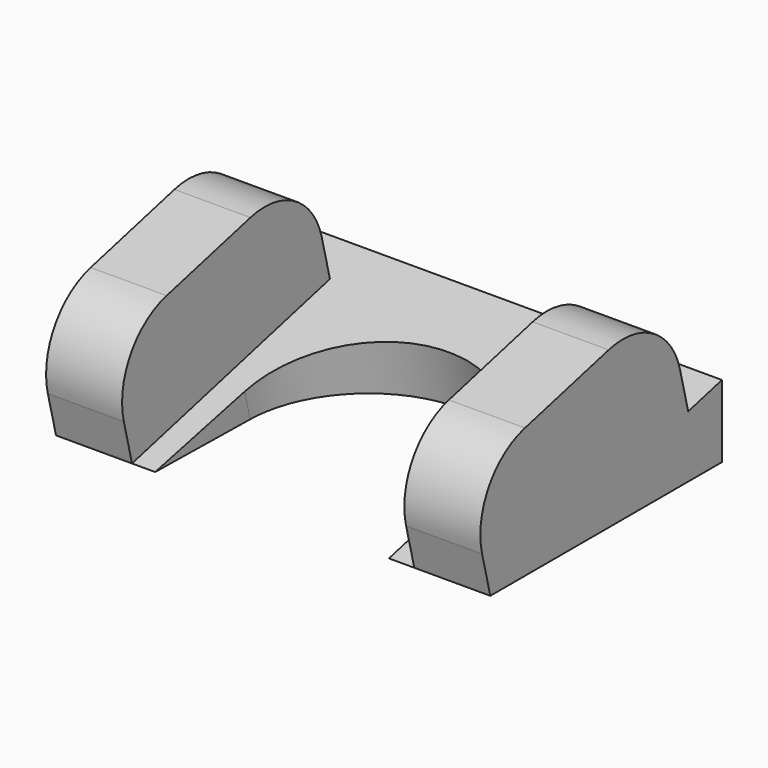
from build123d import *

# Parameters (mm, degrees)
F0_W     = 30
F0_H     = 20
F1_DEPTH = 5
F3_DEPTH = 30
F5_DEPTH = 25.4
F6_W     = 5.25
F6_H     = 17.6155281281
F7_DEPTH = 8
F8_R     = 5.08


with BuildPart() as f1:
    # F0 (on Top) → F1 (new body)
    with BuildSketch(Plane.XY):
        with Locations((15, -10)):
            Rectangle(F0_W, F0_H)
    extrude(amount=F1_DEPTH)

    # F2 (on face) → F3 (cut, through all)
    with BuildSketch(Plane.YZ.offset(30)):
        Polygon((-20, 5), (-20, 0), (0, 5), align=None)
    extrude(amount=-F3_DEPTH, mode=Mode.SUBTRACT)

    # F4 (on face) → F5 (cut)
    with BuildSketch(Plane(origin=(0, -1.1764705882, 4.7058823529), x_dir=(1, 0, 0), z_dir=(0, -0.242535625, 0.9701425001))):
        with BuildLine():
            Line((22.9984683846, -19.4028500029), (22.9984683846, -11.9438578146))
            Line((22.9984683846, -11.9438578146), (22.9984683846, -11.6307859351))
            ThreePointArc((22.9984683846, -11.6307859351), (15, -3.7873218748), (7.0015316154, -11.6307859351))
            Line((7.0015316154, -11.6307859351), (6.8494265755, -19.4028500029))
            Line((6.8494265755, -19.4028500029), (22.9984683846, -19.4028500029))
        make_face()
    extrude(amount=-F5_DEPTH, mode=Mode.SUBTRACT)

    # F6 (on face) → F7 (join)
    with BuildSketch(Plane(origin=(0, -1.1764705882, 4.7058823529), x_dir=(1, 0, 0), z_dir=(0, -0.242535625, 0.9701425001))):
        with Locations((27.375, -10.5950859389)):
            Rectangle(F6_W, F6_H)
        with Locations((2.625, -10.5950859389)):
            Rectangle(F6_W, F6_H)
    extrude(amount=F7_DEPTH)

    # F8
    f8_edges = [f1.edges().sort_by_distance(p)[0] for p in [
        (2.625, -4.850713, 12.033533),
        (27.375, -4.850713, 12.033533),
        (2.625, -21.940285, 7.76114),
        (27.375, -21.940285, 7.76114),
    ]]
    fillet(f8_edges, radius=F8_R)


solid = f1.part
